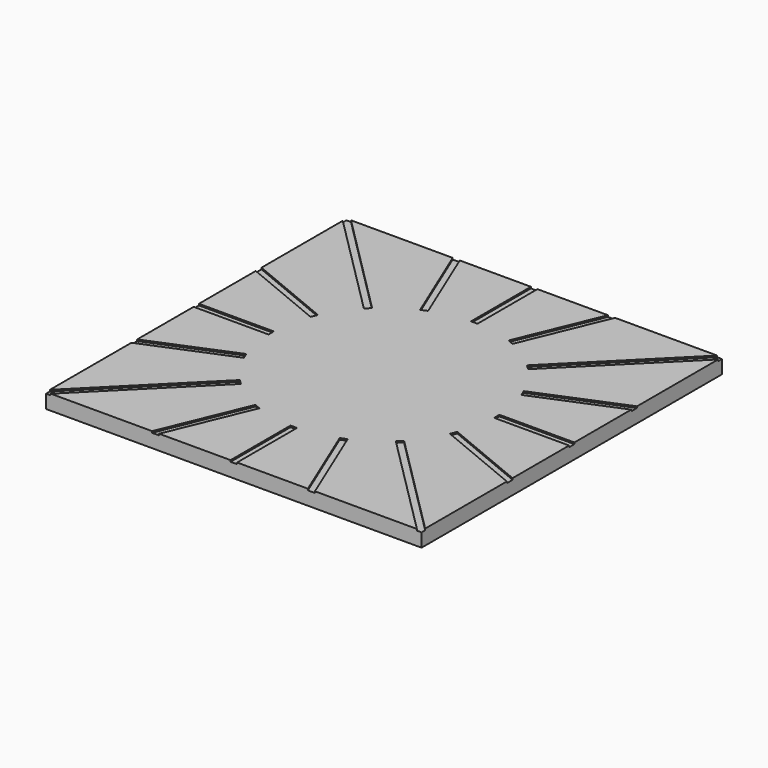
from build123d import *

# Parameters (mm, degrees)
F0_W     = 127
F0_H     = 127
F1_DEPTH = 5.08
F2_W     = 2.19577
F2_H     = 52.046703
F3_DEPTH = 0.508


with BuildPart() as f1:
    # F0 (on Top) → F1 (new body)
    with BuildSketch(Plane.XY):
        Rectangle(F0_W, F0_H)
    extrude(amount=F1_DEPTH)

    # F2 (on face) → F3 (cut)
    with BuildSketch(Plane.XY.offset(5.08)):
        Polygon((38.169024, -1.120174), (90.2161, -1.120174), (90.2161, 1.120174), (38.13681, 1.120174), align=None)
        Polygon((-1.096878, -38.1697), (-1.097885, -90.216374), (1.097885, -90.216374), (1.097885, -38.169671), align=None)
        with Locations((0, 64.193022)):
            Rectangle(F2_W, F2_H)
        Polygon((-38.168937, 1.123112), (-90.2161, 1.120174), (-90.2161, -1.120174), (-38.169024, -1.120174), align=None)
        Polygon((27.771347, 26.192397), (64.574188, 62.995238), (62.990023, 64.579402), (26.164404, 27.753783), align=None)
        Polygon((26.204134, -27.77076), (63.005977, -64.574029), (64.558622, -63.021384), (27.756045, -26.218808), align=None)
        Polygon((-63.026599, 64.563836), (-64.579243, 63.011192), (-27.776666, 26.208615), (-26.224022, 27.761259), align=None)
        Polygon((-27.793985, -26.20045), (-64.594809, -63.00543), (-63.010644, -64.589595), (-26.207804, -27.786754), align=None)
        Polygon((35.612549, 13.623586), (83.697778, 33.54114), (82.840434, 35.610951), (34.725444, 15.681069), align=None)
        Polygon((13.513826, -35.632124), (33.430295, -83.717366), (35.458923, -82.877081), (15.541512, -34.792197), align=None)
        Polygon((-33.589701, 83.821042), (-35.618328, 82.980757), (-15.700917, 34.895874), (-13.67229, 35.736159), align=None)
        Polygon((-35.772999, -13.517161), (-83.857183, -33.437463), (-82.999839, -35.507274), (-34.914611, -15.58972), align=None)
        Polygon((34.73032, -15.532565), (82.815549, -35.450119), (83.672893, -33.380308), (35.557903, -13.450427), align=None)
        Polygon((-15.724882, -34.735455), (-35.643213, -82.819926), (-33.614586, -83.660211), (-13.697175, -35.575328), align=None)
        Polygon((35.434038, 83.037912), (33.405411, 83.878197), (13.488, 35.793313), (15.516627, 34.953028), align=None)
        Polygon((-34.938291, 15.753233), (-83.024724, 35.668105), (-83.882068, 33.598294), (-35.796839, 13.68074), align=None)
    extrude(amount=-F3_DEPTH, mode=Mode.SUBTRACT)


solid = f1.part
